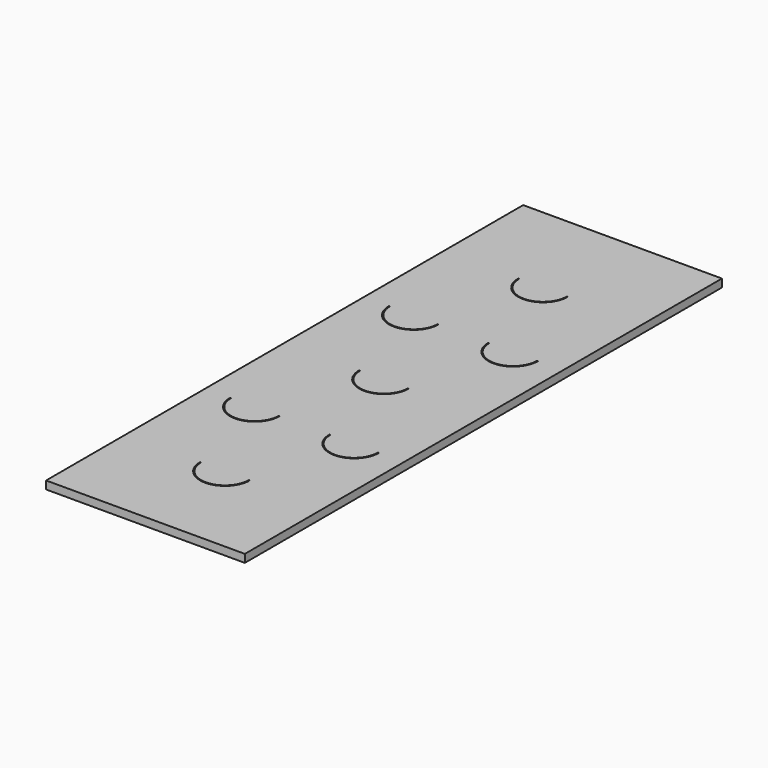
from build123d import *

# Parameters (mm, degrees)
PAD030_DEPTH = 5
PAD028_DEPTH = 5
PAD026_DEPTH = 5
PAD027_DEPTH = 5
PAD029_DEPTH = 5
PAD031_DEPTH = 5
PAD032_DEPTH = 5
SKETCH024_W  = 25
SKETCH024_H  = 75
PAD023_DEPTH = 1


with BuildPart() as pattern005:
    # Sketch033 → Pad030 (new body, symmetric)
    with BuildSketch(Plane.XY):
        with BuildLine():
            ThreePointArc((3.125, 50), (6.25, 46.875), (9.375, 50))
            Line((9.375, 50), (9.25, 50))
            ThreePointArc((3.25, 50), (6.25, 47), (9.25, 50))
            Line((3.25, 50), (3.125, 50))
        make_face()
    extrude(amount=PAD030_DEPTH, both=True)


with BuildPart() as pattern003:
    # Sketch031 → Pad028 (new body, symmetric)
    with BuildSketch(Plane.XY):
        with BuildLine():
            ThreePointArc((15.625, 25), (18.75, 21.875), (21.875, 25))
            Line((21.875, 25), (21.75, 25))
            ThreePointArc((15.75, 25), (18.75, 22), (21.75, 25))
            Line((15.75, 25), (15.625, 25))
        make_face()
    extrude(amount=PAD028_DEPTH, both=True)


with BuildPart() as pattern001:
    # Sketch027 → Pad026 (new body, symmetric)
    with BuildSketch(Plane.XY):
        with BuildLine():
            ThreePointArc((9.375, 12.5), (12.5, 9.375), (15.625, 12.5))
            Line((15.625, 12.5), (15.5, 12.5))
            ThreePointArc((9.5, 12.5), (12.5, 9.5), (15.5, 12.5))
            Line((9.5, 12.5), (9.375, 12.5))
        make_face()
    extrude(amount=PAD026_DEPTH, both=True)


with BuildPart() as pattern002:
    # Sketch029 → Pad027 (new body, symmetric)
    with BuildSketch(Plane.XY):
        with BuildLine():
            ThreePointArc((3.125, 25), (6.25, 21.875), (9.375, 25))
            Line((9.375, 25), (9.25, 25))
            ThreePointArc((3.25, 25), (6.25, 22), (9.25, 25))
            Line((3.25, 25), (3.125, 25))
        make_face()
    extrude(amount=PAD027_DEPTH, both=True)


with BuildPart() as pattern004:
    # Sketch032 → Pad029 (new body, symmetric)
    with BuildSketch(Plane.XY):
        with BuildLine():
            ThreePointArc((9.375, 37.5), (12.5, 34.375), (15.625, 37.5))
            Line((15.625, 37.5), (15.5, 37.5))
            ThreePointArc((9.5, 37.5), (12.5, 34.5), (15.5, 37.5))
            Line((9.5, 37.5), (9.375, 37.5))
        make_face()
    extrude(amount=PAD029_DEPTH, both=True)


with BuildPart() as pattern006:
    # Sketch034 → Pad031 (new body, symmetric)
    with BuildSketch(Plane.XY):
        with BuildLine():
            ThreePointArc((15.625, 50), (18.75, 46.875), (21.875, 50))
            Line((21.875, 50), (21.75, 50))
            ThreePointArc((15.75, 50), (18.75, 47), (21.75, 50))
            Line((15.75, 50), (15.625, 50))
        make_face()
    extrude(amount=PAD031_DEPTH, both=True)


with BuildPart() as pattern007:
    # Sketch035 → Pad032 (new body, symmetric)
    with BuildSketch(Plane.XY):
        with BuildLine():
            ThreePointArc((9.375, 62.5), (12.5, 59.375), (15.625, 62.5))
            Line((15.625, 62.5), (15.5, 62.5))
            ThreePointArc((9.5, 62.5), (12.5, 59.5), (15.5, 62.5))
            Line((9.5, 62.5), (9.375, 62.5))
        make_face()
    extrude(amount=PAD032_DEPTH, both=True)


with BuildPart() as body022:
    # Sketch024 → Pad023 (new body)
    with BuildSketch(Plane.XY):
        with Locations((12.5, 37.5)):
            Rectangle(SKETCH024_W, SKETCH024_H)
    extrude(amount=PAD023_DEPTH)

    # Boolean006: cut pattern005, pattern003, pattern001, pattern002, pattern004, pattern006, pattern007
    add(pattern005.part, mode=Mode.SUBTRACT)
    add(pattern003.part, mode=Mode.SUBTRACT)
    add(pattern001.part, mode=Mode.SUBTRACT)
    add(pattern002.part, mode=Mode.SUBTRACT)
    add(pattern004.part, mode=Mode.SUBTRACT)
    add(pattern006.part, mode=Mode.SUBTRACT)
    add(pattern007.part, mode=Mode.SUBTRACT)


solid = body022.part
